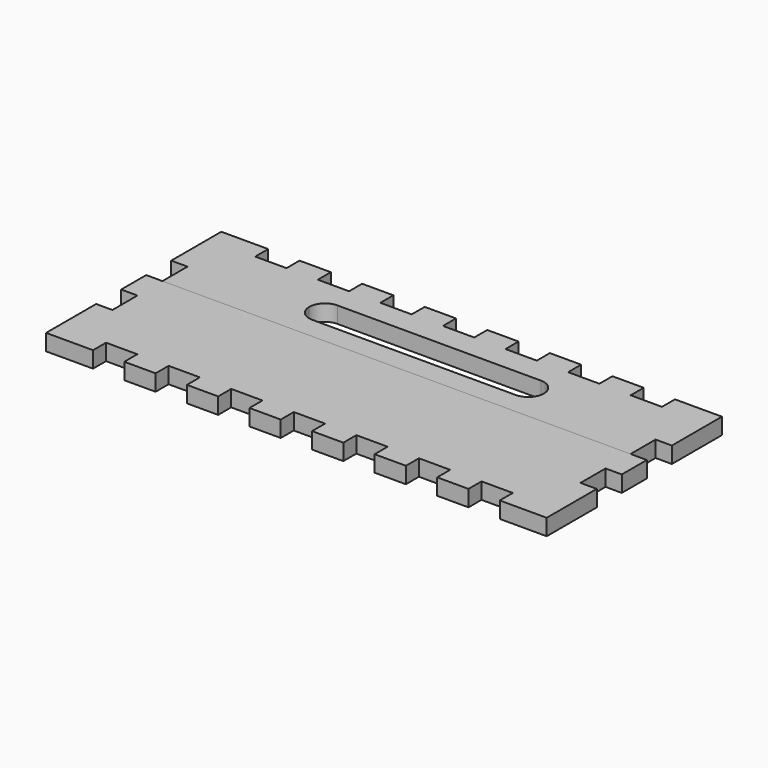
from build123d import *

# Parameters (mm, degrees)
F1_DEPTH = 6.604
F2_DEPTH = 6.604


with BuildPart() as f1:
    # F0 (on Top) → F1 (new body)
    with BuildSketch(Plane.XY):
        Polygon((19.05, 0), (0, 0), (0, -25.4), (6.604, -25.4), (6.604, -38.1), (196.596, -38.1), (196.596, -25.4), (203.2, -25.4), (203.2, 0), (184.15, 0), (184.15, -6.604), (171.45, -6.604), (171.45, 0), (158.75, 0), (158.75, -6.604), (146.05, -6.604), (146.05, 0), (133.35, 0), (133.35, -6.604), (120.65, -6.604), (120.65, 0), (107.95, 0), (107.95, -6.604), (95.25, -6.604), (95.25, 0), (82.55, 0), (82.55, -6.604), (69.85, -6.604), (69.85, 0), (57.15, 0), (57.15, -6.604), (44.45, -6.604), (44.45, 0), (31.75, 0), (31.75, -6.604), (19.05, -6.604), align=None)
        with BuildLine():
            ThreePointArc((53.975, -22.86), (55.834872, -18.369872), (60.325, -16.51))
            Line((60.325, -16.51), (142.875, -16.51))
            ThreePointArc((142.875, -16.51), (147.365128, -18.369872), (149.225, -22.86))
            ThreePointArc((149.225, -22.86), (147.365128, -27.350128), (142.875, -29.21))
            Line((142.875, -29.21), (60.325, -29.21))
            ThreePointArc((60.325, -29.21), (55.834872, -27.350128), (53.975, -22.86))
        make_face(mode=Mode.SUBTRACT)
    extrude(amount=F1_DEPTH)


with BuildPart() as f2:
    # F0 (on Top) → F2 (new body)
    with BuildSketch(Plane.XY):
        Polygon((196.596, -38.1), (6.604, -38.1), (0, -38.1), (0, -50.8), (6.604, -50.8), (6.604, -63.5), (0, -63.5), (0, -88.9), (19.05, -88.9), (19.05, -82.296), (31.75, -82.296), (31.75, -88.9), (44.45, -88.9), (44.45, -82.296), (57.15, -82.296), (57.15, -88.9), (69.85, -88.9), (69.85, -82.296), (82.55, -82.296), (82.55, -88.9), (95.25, -88.9), (95.25, -82.296), (107.95, -82.296), (107.95, -88.9), (120.65, -88.9), (120.65, -82.296), (133.35, -82.296), (133.35, -88.9), (146.05, -88.9), (146.05, -82.296), (158.75, -82.296), (158.75, -88.9), (171.45, -88.9), (171.45, -82.296), (184.15, -82.296), (184.15, -88.9), (203.2, -88.9), (203.2, -63.5), (196.596, -63.5), (196.596, -50.8), (203.2, -50.8), (203.2, -38.1), align=None)
    extrude(amount=F2_DEPTH)


solid = Compound([f1.part, f2.part])
